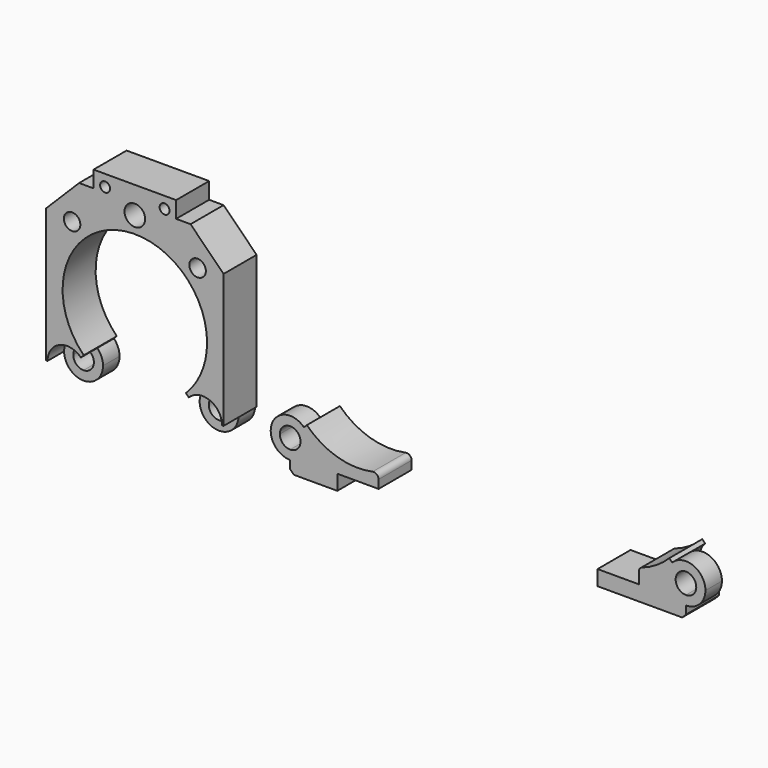
from build123d import *

# Parameters (mm, degrees)
F0_R      = 1.27
F0_R_2    = 0.762
F0_R_3    = 1.5875
F1_DEPTH  = 6.35
F2_R      = 2.9942741012
F3_DEPTH  = 3.175
F5_DEPTH  = 6.35
F7_DEPTH  = 6.35
F8_R      = 2.9942741012
F9_DEPTH  = 3.175
F10_R     = 2.9942741012
F11_DEPTH = 3.175
F12_R     = 0.762
F13_R     = 0.762


with BuildPart() as f1:
    # F0 (on Front) → F1 (new body)
    with BuildSketch(Plane.XZ):
        with BuildLine():
            ThreePointArc((-7.8577241059, -7.8577241059), (-4.2525696422, 10.266611305), (11.1125, 0))
            ThreePointArc((11.1125, 0), (10.266611305, -4.2525696422), (7.8577241059, -7.8577241059))
            Line((7.8577241059, -7.8577241059), (8.3067069566, -8.3067069566))
            ThreePointArc((8.3067069566, -8.3067069566), (11.5698375688, -7.6576299215), (13.4182525795, -10.4239784783))
            Line((13.4182525795, -10.4239784783), (13.6525, -10.4239784783))
            Line((13.6525, -10.4239784783), (13.6525, 10.16))
            Line((13.6525, 10.16), (8.5725, 15.24))
            Line((8.5725, 15.24), (6.35, 15.24))
            Line((6.35, 15.24), (6.35, 17.78))
            Line((6.35, 17.78), (-6.35, 17.78))
            Line((-6.35, 17.78), (-6.35, 15.24))
            Line((-6.35, 15.24), (-8.5725, 15.24))
            Line((-8.5725, 15.24), (-13.6525, 10.16))
            Line((-13.6525, 10.16), (-13.6525, -10.4239784783))
            Line((-13.6525, -10.4239784783), (-13.4182525795, -10.4239784783))
            ThreePointArc((-13.4182525795, -10.4239784783), (-11.5698375688, -7.6576299215), (-8.3067069566, -8.3067069566))
            Line((-8.3067069566, -8.3067069566), (-7.8577241059, -7.8577241059))
        make_face()
        with Locations((-9.6537753301, 9.6537753301)):
            Circle(F0_R, mode=Mode.SUBTRACT)
        with Locations((-4.572, 16.002)):
            Circle(F0_R_2, mode=Mode.SUBTRACT)
        with Locations((0, 13.6525)):
            Circle(F0_R_3, mode=Mode.SUBTRACT)
        with Locations((4.572, 16.002)):
            Circle(F0_R_2, mode=Mode.SUBTRACT)
        with Locations((9.6537753301, 9.6537753301)):
            Circle(F0_R, mode=Mode.SUBTRACT)
        with BuildLine():
            Line((-12.0114784783, -10.4239784783), (-13.4182525795, -10.4239784783))
            ThreePointArc((-13.4182525795, -10.4239784783), (-13.1903270351, -11.5698375688), (-12.54125, -12.54125))
            ThreePointArc((-12.54125, -12.54125), (-11.5698375688, -13.1903270351), (-10.4239784783, -13.4182525795))
            Line((-10.4239784783, -13.4182525795), (-10.4239784783, -12.0114784783))
            ThreePointArc((-10.4239784783, -12.0114784783), (-11.5465104934, -11.5465104934), (-12.0114784783, -10.4239784783))
        make_face()
        with BuildLine():
            ThreePointArc((-7.4297043771, -10.4239784783), (-7.6576299215, -9.2781193878), (-8.3067069566, -8.3067069566))
            ThreePointArc((-8.3067069566, -8.3067069566), (-11.5698375688, -7.6576299215), (-13.4182525795, -10.4239784783))
            Line((-13.4182525795, -10.4239784783), (-12.0114784783, -10.4239784783))
            ThreePointArc((-12.0114784783, -10.4239784783), (-10.4239784783, -8.8364784783), (-8.8364784783, -10.4239784783))
            ThreePointArc((-8.8364784783, -10.4239784783), (-9.3014464632, -11.5465104934), (-10.4239784783, -12.0114784783))
            Line((-10.4239784783, -12.0114784783), (-10.4239784783, -13.4182525795))
            ThreePointArc((-10.4239784783, -13.4182525795), (-8.3067069566, -12.54125), (-7.4297043771, -10.4239784783))
        make_face()
        with BuildLine():
            ThreePointArc((13.4182525795, -10.4239784783), (11.5698375688, -7.6576299215), (8.3067069566, -8.3067069566))
            ThreePointArc((8.3067069566, -8.3067069566), (7.6576299215, -11.5698375688), (10.4239784783, -13.4182525795))
            Line((10.4239784783, -13.4182525795), (10.4239784783, -12.0114784783))
            ThreePointArc((10.4239784783, -12.0114784783), (9.3014464632, -9.3014464632), (12.0114784783, -10.4239784783))
            Line((12.0114784783, -10.4239784783), (13.4182525795, -10.4239784783))
        make_face()
        with BuildLine():
            ThreePointArc((12.5412499532, -12.5412500468), (13.1903270225, -11.5698375994), (13.4182525795, -10.4239784783))
            Line((13.4182525795, -10.4239784783), (12.0114784783, -10.4239784783))
            ThreePointArc((12.0114784783, -10.4239784783), (11.5465104934, -11.5465104934), (10.4239784783, -12.0114784783))
            Line((10.4239784783, -12.0114784783), (10.4239784783, -13.4182525795))
            ThreePointArc((10.4239784783, -13.4182525795), (11.5698375382, -13.1903270478), (12.5412499532, -12.5412500468))
        make_face()
        with BuildLine():
            ThreePointArc((-7.8577241059, -7.8577241059), (-4.2525696422, 10.266611305), (11.1125, 0))
            ThreePointArc((11.1125, 0), (10.266611305, -4.2525696422), (7.8577241059, -7.8577241059))
            Line((7.8577241059, -7.8577241059), (8.3067069566, -8.3067069566))
            ThreePointArc((8.3067069566, -8.3067069566), (11.5698375688, -7.6576299215), (13.4182525795, -10.4239784783))
            Line((13.4182525795, -10.4239784783), (13.6525, -10.4239784783))
            Line((13.6525, -10.4239784783), (13.6525, 10.16))
            Line((13.6525, 10.16), (8.5725, 15.24))
            Line((8.5725, 15.24), (6.35, 15.24))
            Line((6.35, 15.24), (6.35, 17.78))
            Line((6.35, 17.78), (-6.35, 17.78))
            Line((-6.35, 17.78), (-6.35, 15.24))
            Line((-6.35, 15.24), (-8.5725, 15.24))
            Line((-8.5725, 15.24), (-13.6525, 10.16))
            Line((-13.6525, 10.16), (-13.6525, -10.4239784783))
            Line((-13.6525, -10.4239784783), (-13.4182525795, -10.4239784783))
            ThreePointArc((-13.4182525795, -10.4239784783), (-11.5698375688, -7.6576299215), (-8.3067069566, -8.3067069566))
            Line((-8.3067069566, -8.3067069566), (-7.8577241059, -7.8577241059))
        make_face()
        with Locations((-9.6537753301, 9.6537753301)):
            Circle(F0_R, mode=Mode.SUBTRACT)
        with Locations((-4.572, 16.002)):
            Circle(F0_R_2, mode=Mode.SUBTRACT)
        with Locations((0, 13.6525)):
            Circle(F0_R_3, mode=Mode.SUBTRACT)
        with Locations((4.572, 16.002)):
            Circle(F0_R_2, mode=Mode.SUBTRACT)
        with Locations((9.6537753301, 9.6537753301)):
            Circle(F0_R, mode=Mode.SUBTRACT)
        with BuildLine():
            ThreePointArc((-7.8577241059, -7.8577241059), (-4.2525696422, 10.266611305), (11.1125, 0))
            ThreePointArc((11.1125, 0), (10.266611305, -4.2525696422), (7.8577241059, -7.8577241059))
            Line((7.8577241059, -7.8577241059), (8.3067069566, -8.3067069566))
            ThreePointArc((8.3067069566, -8.3067069566), (11.5698375688, -7.6576299215), (13.4182525795, -10.4239784783))
            Line((13.4182525795, -10.4239784783), (13.6525, -10.4239784783))
            Line((13.6525, -10.4239784783), (13.6525, 10.16))
            Line((13.6525, 10.16), (8.5725, 15.24))
            Line((8.5725, 15.24), (6.35, 15.24))
            Line((6.35, 15.24), (6.35, 17.78))
            Line((6.35, 17.78), (-6.35, 17.78))
            Line((-6.35, 17.78), (-6.35, 15.24))
            Line((-6.35, 15.24), (-8.5725, 15.24))
            Line((-8.5725, 15.24), (-13.6525, 10.16))
            Line((-13.6525, 10.16), (-13.6525, -10.4239784783))
            Line((-13.6525, -10.4239784783), (-13.4182525795, -10.4239784783))
            ThreePointArc((-13.4182525795, -10.4239784783), (-11.5698375688, -7.6576299215), (-8.3067069566, -8.3067069566))
            Line((-8.3067069566, -8.3067069566), (-7.8577241059, -7.8577241059))
        make_face()
        with Locations((-9.6537753301, 9.6537753301)):
            Circle(F0_R, mode=Mode.SUBTRACT)
        with Locations((-4.572, 16.002)):
            Circle(F0_R_2, mode=Mode.SUBTRACT)
        with Locations((0, 13.6525)):
            Circle(F0_R_3, mode=Mode.SUBTRACT)
        with Locations((4.572, 16.002)):
            Circle(F0_R_2, mode=Mode.SUBTRACT)
        with Locations((9.6537753301, 9.6537753301)):
            Circle(F0_R, mode=Mode.SUBTRACT)
    extrude(amount=F1_DEPTH)

    # F2 (on face) → F3 (cut)
    with BuildSketch(Plane.XZ.offset(6.35)):
        with Locations((-10.4239784783, -10.4239784783)):
            Circle(F2_R)
        with Locations((10.4239784783, -10.4239784783)):
            Circle(F2_R)
    extrude(amount=-F3_DEPTH, mode=Mode.SUBTRACT)


with BuildPart() as f5:
    # F4 (on Front) → F5 (new body)
    with BuildSketch(Plane.XZ):
        with BuildLine():
            ThreePointArc((26.8899129888, -8.7162277541), (26.6619874445, -7.5703686636), (26.0129104093, -6.5989562324))
            ThreePointArc((26.0129104093, -6.5989562324), (22.7497797971, -5.9498791973), (20.9013647864, -8.7162277541))
            Line((20.9013647864, -8.7162277541), (22.3081388876, -8.7162277541))
            ThreePointArc((22.3081388876, -8.7162277541), (23.8956388876, -7.1287277541), (25.4831388876, -8.7162277541))
            ThreePointArc((25.4831388876, -8.7162277541), (25.0181709028, -9.8387597693), (23.8956388876, -10.3037277541))
            Line((23.8956388876, -10.3037277541), (23.8956388876, -11.7105018553))
            ThreePointArc((23.8956388876, -11.7105018553), (26.0129104093, -10.8334992758), (26.8899129888, -8.7162277541))
        make_face()
        with BuildLine():
            Line((22.3081388876, -8.7162277541), (20.9013647864, -8.7162277541))
            ThreePointArc((20.9013647864, -8.7162277541), (21.1292903308, -9.8620868446), (21.7783673659, -10.8334992758))
            ThreePointArc((21.7783673659, -10.8334992758), (22.7497797971, -11.482576311), (23.8956388876, -11.7105018553))
            Line((23.8956388876, -11.7105018553), (23.8956388876, -10.3037277541))
            ThreePointArc((23.8956388876, -10.3037277541), (22.7731068725, -9.8387597693), (22.3081388876, -8.7162277541))
        make_face()
        with BuildLine():
            ThreePointArc((37.4946173659, -8.9415230187), (31.5937847212, -9.0652475884), (26.46189326, -6.1499733817))
            Line((26.46189326, -6.1499733817), (26.0129104093, -6.5989562324))
            ThreePointArc((26.0129104093, -6.5989562324), (26.6619874445, -7.5703686636), (26.8899129888, -8.7162277541))
            ThreePointArc((26.8899129888, -8.7162277541), (26.0129104093, -10.8334992758), (23.8956388876, -11.7105018553))
            Line((23.8956388876, -11.7105018553), (23.8956388876, -12.9507707975))
            Line((23.8956388876, -12.9507707975), (24.4771173659, -13.5322492758))
            Line((24.4771173659, -13.5322492758), (31.1446173659, -13.5322492758))
            Line((31.1446173659, -13.5322492758), (31.1446173659, -11.2078400538))
            Line((31.1446173659, -11.2078400538), (37.4946173659, -11.2078400538))
            Line((37.4946173659, -11.2078400538), (37.4946173659, -8.9415230187))
        make_face()
    extrude(amount=F5_DEPTH)

    # F8 (on face) → F9 (cut)
    with BuildSketch(Plane(origin=(0, 0, 0), x_dir=(-1, 0, 0), z_dir=(0, 1, 0))):
        with Locations((-23.8956388876, -8.7162277541)):
            Circle(F8_R)
    extrude(amount=-F9_DEPTH, mode=Mode.SUBTRACT)

    # F12
    f12_edges = [f5.edges().sort_by_distance(p)[0] for p in [
        (37.494617, -3.175, -8.941523),
    ]]
    fillet(f12_edges, radius=F12_R)


with BuildPart() as f7:
    # F6 (on Front) → F7 (new body)
    with BuildSketch(Plane.XZ):
        with BuildLine():
            Line((82.6587371794, -6.4942501965), (82.2097543287, -6.0452673458))
            ThreePointArc((82.2097543287, -6.0452673458), (80.0422356359, -7.7326581479), (77.5270302228, -8.8368169827))
            Line((77.5270302228, -8.8368169827), (77.5270302228, -11.1031340179))
            Line((77.5270302228, -11.1031340179), (71.1770302228, -11.1031340179))
            Line((71.1770302228, -11.1031340179), (71.1770302228, -13.4275432399))
            Line((71.1770302228, -13.4275432399), (84.1945302228, -13.4275432399))
            Line((84.1945302228, -13.4275432399), (84.7760087011, -12.8460647616))
            Line((84.7760087011, -12.8460647616), (84.7760087011, -11.6057958194))
            ThreePointArc((84.7760087011, -11.6057958194), (82.0096601442, -9.7573808087), (82.6587371794, -6.4942501965))
        make_face()
        with BuildLine():
            ThreePointArc((87.7702828023, -8.6115217182), (85.9218677916, -5.8451731614), (82.6587371794, -6.4942501965))
            ThreePointArc((82.6587371794, -6.4942501965), (82.0096601442, -9.7573808087), (84.7760087011, -11.6057958194))
            Line((84.7760087011, -11.6057958194), (84.7760087011, -10.1990217182))
            ThreePointArc((84.7760087011, -10.1990217182), (83.6534766859, -7.4889897031), (86.3635087011, -8.6115217182))
            Line((86.3635087011, -8.6115217182), (87.7702828023, -8.6115217182))
        make_face()
        with BuildLine():
            ThreePointArc((86.8932802188, -10.7287932438), (87.5423572568, -9.7573808113), (87.7702828023, -8.6115217182))
            Line((87.7702828023, -8.6115217182), (86.3635087011, -8.6115217182))
            ThreePointArc((86.3635087011, -8.6115217182), (85.8985407162, -9.7340537333), (84.7760087011, -10.1990217182))
            Line((84.7760087011, -10.1990217182), (84.7760087011, -11.6057958194))
            ThreePointArc((84.7760087011, -11.6057958194), (85.921867789, -11.3778702761), (86.8932802188, -10.7287932438))
        make_face()
    extrude(amount=F7_DEPTH)

    # F10 (on face) → F11 (cut)
    with BuildSketch(Plane(origin=(0, 0, 0), x_dir=(-1, 0, 0), z_dir=(0, 1, 0))):
        with Locations((-84.7760087011, -8.6115217182)):
            Circle(F10_R)
    extrude(amount=-F11_DEPTH, mode=Mode.SUBTRACT)

    # F13
    f13_edges = [f7.edges().sort_by_distance(p)[0] for p in [
        (77.52703, -3.175, -8.836817),
    ]]
    fillet(f13_edges, radius=F13_R)


solid = Compound([f1.part, f5.part, f7.part])
